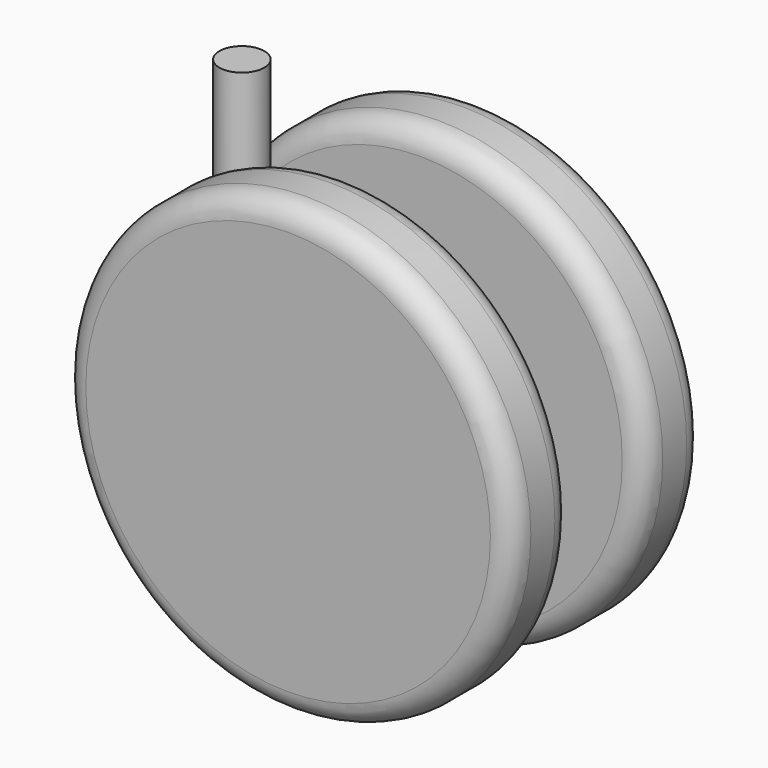
from build123d import *

# Parameters (mm, degrees)
F0_R     = 30
F1_DEPTH = 10
F2_R     = 3
F3_R     = 5
F4_DEPTH = 6
F6_W     = 30.898128
F6_H     = 20.435788
F6_R     = 5
F7_DEPTH = 4
F8_R     = 3
F9_DEPTH = 25


with BuildPart() as f1:
    # F0 (on Front) → F1 (new body)
    with BuildSketch(Plane.XZ):
        Circle(F0_R)
    extrude(amount=F1_DEPTH)

    # F2
    f2_edges = [f1.edges().sort_by_distance(p)[0] for p in [
        (-30, -10, 0),
        (-30, 0, 0),
    ]]
    fillet(f2_edges, radius=F2_R)

    # F3 (on face) → F4 (join)
    with BuildSketch(Plane.XZ.offset(10)):
        Circle(F3_R)
    extrude(amount=F4_DEPTH)


with BuildPart() as f5_1:
    # F5: instance of F1
    add(f1.part.mirror(Plane.XZ.offset(16)))


with BuildPart() as f7:
    # F6 (on face) → F7 (new body, symmetric)
    with BuildSketch(Plane.XZ.offset(16)):
        with Locations((-7.573711, -0.615)):
            Rectangle(F6_W, F6_H)
        Circle(F6_R, mode=Mode.SUBTRACT)
    extrude(amount=F7_DEPTH, both=True)

    # F8 (on face) → F9 (join)
    with BuildSketch(Plane.XY.offset(9.602894)):
        with Locations((-19.022775, -15.933672)):
            Circle(F8_R)
    extrude(amount=F9_DEPTH)


solid = Compound([f1.part, f5_1.part, f7.part])
